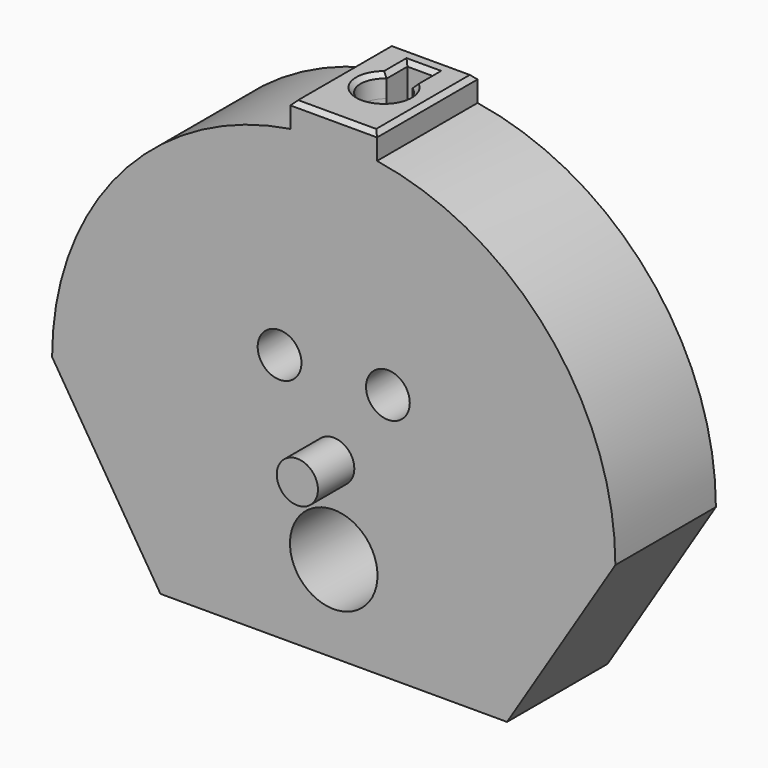
from build123d import *

# Parameters (mm, degrees)
SKETCH008_W     = 20
SKETCH008_H     = 29
PAD008_DEPTH    = 15
PAD009_DEPTH    = 29
SKETCH017_R     = 4.75
PAD015_DEPTH    = 50
POCKET001_DEPTH = 70
SKETCH018_W     = 40
SKETCH018_H     = 15
POCKET002_DEPTH = 15
SKETCH019_R     = 5.05
POCKET003_DEPTH = 117
PAD016_DEPTH    = 20
SKETCH023_R     = 1.25
HOLE_DEPTH      = 25
HOLE_TIPS_R     = 1.25
SKETCH031_R     = 10.1
POCKET007_DEPTH = 30
SKETCH032_R     = 2.1
HOLE003_DEPTH   = 25
HOLE003_TIPS_R  = 2.1
CHAMFER001_SIZE = 1


with BuildPart() as part:
    # Sketch008 → Pad008 (new body)
    with BuildSketch(Plane.XY.offset(15)):
        with Locations((0, 35)):
            Rectangle(SKETCH008_W, SKETCH008_H)
        with BuildLine():
            ThreePointArc((-3, 39.5), (0, 29.591673), (3, 39.5))
            Line((3, 39.5), (3, 45.5))
            Line((3, 45.5), (-3, 45.5))
            Line((-3, 39.5), (-3, 45.5))
        make_face(mode=Mode.SUBTRACT)
    extrude(amount=PAD008_DEPTH)

    # Sketch009 → Pad009 (join)
    with BuildSketch(Plane.XZ.offset(-20.5)):
        with BuildLine():
            ThreePointArc((64.999803, -40), (0, 24.999803), (-64.999803, -40))
            Line((-64.999803, -40), (-40, -80))
            Line((-40, -80), (40, -80))
            Line((40, -80), (64.999803, -40))
        make_face()
    extrude(amount=-PAD009_DEPTH)

    # Sketch017 → Pad015 (join)
    with BuildSketch(Plane.XZ.offset(-10)):
        with Locations((0, -40)):
            Circle(SKETCH017_R)
    extrude(amount=-PAD015_DEPTH)

    # Sketch016 → Pocket001 (cut)
    with BuildSketch(Plane.XY.offset(30)):
        with BuildLine():
            ThreePointArc((-3, 39.5), (0, 29.591673), (3, 39.5))
            Line((3, 45.5), (3, 39.5))
            Line((-3, 45.5), (3, 45.5))
            Line((-3, 39.5), (-3, 45.5))
        make_face()
    extrude(amount=-POCKET001_DEPTH, mode=Mode.SUBTRACT)

    # Sketch018 → Pocket002 (cut)
    with BuildSketch(Plane.XZ.offset(-50)):
        with Locations((0, -22.5)):
            Rectangle(SKETCH018_W, SKETCH018_H)
    extrude(amount=POCKET002_DEPTH, mode=Mode.SUBTRACT)

    # Sketch019 → Pocket003 (cut)
    with BuildSketch(Plane.XZ):
        with Locations((-12.5, -22.5)):
            Circle(SKETCH019_R)
        with Locations((12.5, -22.5)):
            Circle(SKETCH019_R)
    extrude(amount=-POCKET003_DEPTH, mode=Mode.SUBTRACT)

    # Sketch022 → Pad016 (join)
    with BuildSketch(Plane.XZ.offset(-49.5)):
        Polygon((-10, -35), (-10, -30), (-20, -30), (-20, -15), (20, -15), (20, -30), (10, -30), (10, -35), (30, -35), (30, -20), (20, -10), (-20, -10), (-30, -20), (-30, -35), align=None)
    extrude(amount=-PAD016_DEPTH)

    # Sketch023 → Hole (cut)
    with BuildSketch(Plane.XZ.offset(-70)):
        with Locations((-25, -30)):
            Circle(SKETCH023_R)
        with Locations((25, -30)):
            Circle(SKETCH023_R)
        with Locations((-25, -22.5)):
            Circle(SKETCH023_R)
        with Locations((25, -22.5)):
            Circle(SKETCH023_R)
    extrude(amount=HOLE_DEPTH, mode=Mode.SUBTRACT)

    # Hole tips → Hole tip 1 section 0
    with BuildSketch(Plane.XZ.offset(-45), mode=Mode.PRIVATE) as hole_tip_1_s0:
        with Locations((-25, -30)):
            Circle(HOLE_TIPS_R)
    loft([hole_tip_1_s0.sketch, Vertex(-25, 44.248924, -30)], mode=Mode.SUBTRACT)

    # Hole tips → Hole tip 2 section 0
    with BuildSketch(Plane.XZ.offset(-45), mode=Mode.PRIVATE) as hole_tip_2_s0:
        with Locations((25, -30)):
            Circle(HOLE_TIPS_R)
    loft([hole_tip_2_s0.sketch, Vertex(25, 44.248924, -30)], mode=Mode.SUBTRACT)

    # Hole tips → Hole tip 3 section 0
    with BuildSketch(Plane.XZ.offset(-45), mode=Mode.PRIVATE) as hole_tip_3_s0:
        with Locations((-25, -22.5)):
            Circle(HOLE_TIPS_R)
    loft([hole_tip_3_s0.sketch, Vertex(-25, 44.248924, -22.5)], mode=Mode.SUBTRACT)

    # Hole tips → Hole tip 4 section 0
    with BuildSketch(Plane.XZ.offset(-45), mode=Mode.PRIVATE) as hole_tip_4_s0:
        with Locations((25, -22.5)):
            Circle(HOLE_TIPS_R)
    loft([hole_tip_4_s0.sketch, Vertex(25, 44.248924, -22.5)], mode=Mode.SUBTRACT)

    # Sketch031 → Pocket007 (cut)
    with BuildSketch(Plane.XZ.offset(-50)):
        with Locations((0, -60)):
            Circle(SKETCH031_R)
    extrude(amount=POCKET007_DEPTH, mode=Mode.SUBTRACT)

    # Sketch032 → Hole003 (cut)
    with BuildSketch(Plane.XZ.offset(-50)):
        with Locations((-15, -50)):
            Circle(SKETCH032_R)
        with Locations((-15, -70)):
            Circle(SKETCH032_R)
        with Locations((15, -70)):
            Circle(SKETCH032_R)
        with Locations((15, -50)):
            Circle(SKETCH032_R)
    extrude(amount=HOLE003_DEPTH, mode=Mode.SUBTRACT)

    # Hole003 tips → Hole003 tip 1 section 0
    with BuildSketch(Plane.XZ.offset(-25), mode=Mode.PRIVATE) as hole003_tip_1_s0:
        with Locations((-15, -50)):
            Circle(HOLE003_TIPS_R)
    loft([hole003_tip_1_s0.sketch, Vertex(-15, 23.738193, -50)], mode=Mode.SUBTRACT)

    # Hole003 tips → Hole003 tip 2 section 0
    with BuildSketch(Plane.XZ.offset(-25), mode=Mode.PRIVATE) as hole003_tip_2_s0:
        with Locations((-15, -70)):
            Circle(HOLE003_TIPS_R)
    loft([hole003_tip_2_s0.sketch, Vertex(-15, 23.738193, -70)], mode=Mode.SUBTRACT)

    # Hole003 tips → Hole003 tip 3 section 0
    with BuildSketch(Plane.XZ.offset(-25), mode=Mode.PRIVATE) as hole003_tip_3_s0:
        with Locations((15, -70)):
            Circle(HOLE003_TIPS_R)
    loft([hole003_tip_3_s0.sketch, Vertex(15, 23.738193, -70)], mode=Mode.SUBTRACT)

    # Hole003 tips → Hole003 tip 4 section 0
    with BuildSketch(Plane.XZ.offset(-25), mode=Mode.PRIVATE) as hole003_tip_4_s0:
        with Locations((15, -50)):
            Circle(HOLE003_TIPS_R)
    loft([hole003_tip_4_s0.sketch, Vertex(15, 23.738193, -50)], mode=Mode.SUBTRACT)

    # Chamfer001
    chamfer001_edges = [part.edges().sort_by_distance(p)[0] for p in [
        (3, 42.5, 30),
        (0, 45.5, 30),
        (-3, 42.5, 30),
        (0, 29.591673, 30),
        (-10, 35, 30),
        (0, 49.5, 30),
        (10, 35, 30),
        (0, 20.5, 30),
    ]]
    chamfer(chamfer001_edges, length=CHAMFER001_SIZE)


solid = part.part
